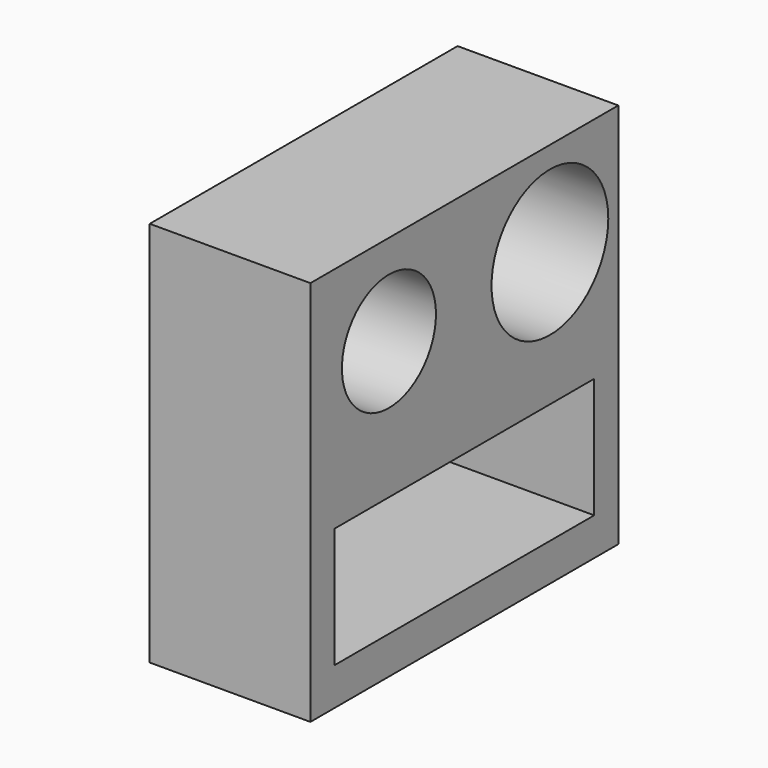
from build123d import *

# Parameters (mm, degrees)
F0_W     = 1745.899328
F0_H     = 1752.6
F1_DEPTH = 728.98
F2_R     = 266.7
F3_DEPTH = 949.96
F4_W     = 1473.042846
F4_H     = 545.412392
F4_R     = 331.059319
F5_DEPTH = 1889.76


with BuildPart() as f1:
    # F0 (on Right) → F1 (new body)
    with BuildSketch(Plane.YZ):
        Rectangle(F0_W, F0_H)
    extrude(amount=F1_DEPTH)

    # F2 (on face) → F3 (cut)
    with BuildSketch(Plane.YZ.offset(728.98)):
        with Locations((-427.558064, 463.162661)):
            Circle(F2_R)
    extrude(amount=-F3_DEPTH, mode=Mode.SUBTRACT)

    # F4 (on face) → F5 (cut)
    with BuildSketch(Plane.YZ.offset(728.98)):
        with Locations((0, -432.679504)):
            Rectangle(F4_W, F4_H)
        with Locations((485.288173, 447.710544)):
            Circle(F4_R)
    extrude(amount=-F5_DEPTH, mode=Mode.SUBTRACT)


solid = f1.part
